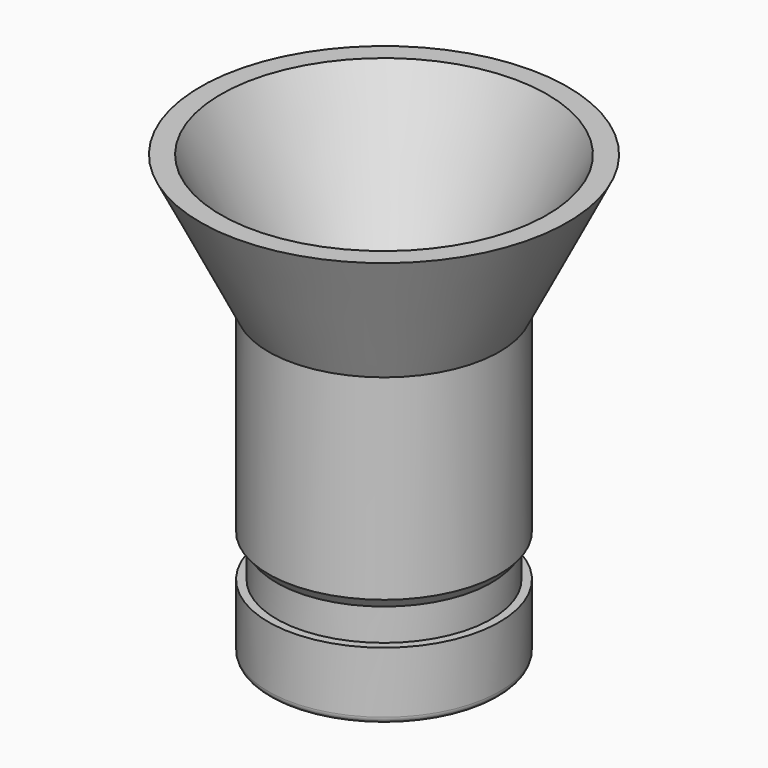
from build123d import *

# Parameters (mm, degrees)
F2_R = 1


with BuildPart() as f1:
    # F0 (on Right) → F1 (revolve)
    with BuildSketch(Plane.YZ):
        Polygon((14, 45), (14, 0), (17, 0), (17, 10), (15.8, 10), (15.8, 14.7), (17, 16.2), (17, 45), (27, 65), (24, 65), align=None)
    revolve(axis=Axis((0, 0, 22.5), (0, 0, 1)))

    # F2
    f2_edges = [f1.edges().sort_by_distance(p)[0] for p in [
        (0, -17, 0),
    ]]
    fillet(f2_edges, radius=F2_R)


solid = f1.part
